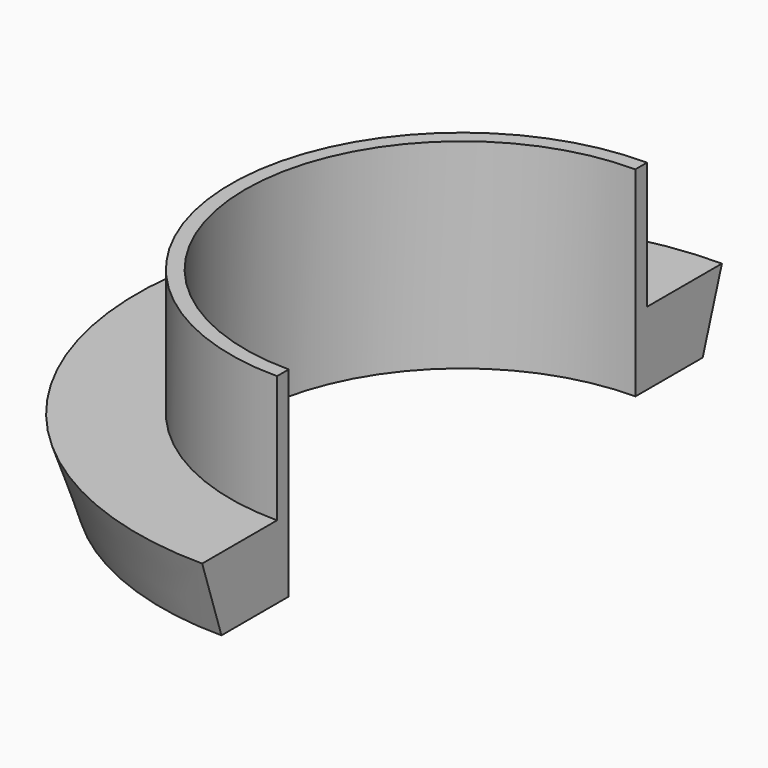
from build123d import *

# Parameters (mm, degrees)
F1_ANGLE = 180


with BuildPart() as f1:
    # F0 (on Front) → F1 (revolve, symmetric)
    with BuildSketch(Plane.XZ) as f1_sk:
        Polygon((-66.712074, 15), (-61.767366, 0), (-44.5, 0), (-44.5, 41.067686), (-47.5, 41.067686), (-47.5, 15), align=None)
    revolve(axis=Axis((0, 0, 45.255795), (0, 0, 1)), revolution_arc=F1_ANGLE / 2)
    revolve(f1_sk.sketch, axis=Axis((0, 0, 45.255795), (0, 0, -1)), revolution_arc=F1_ANGLE / 2)


solid = f1.part
